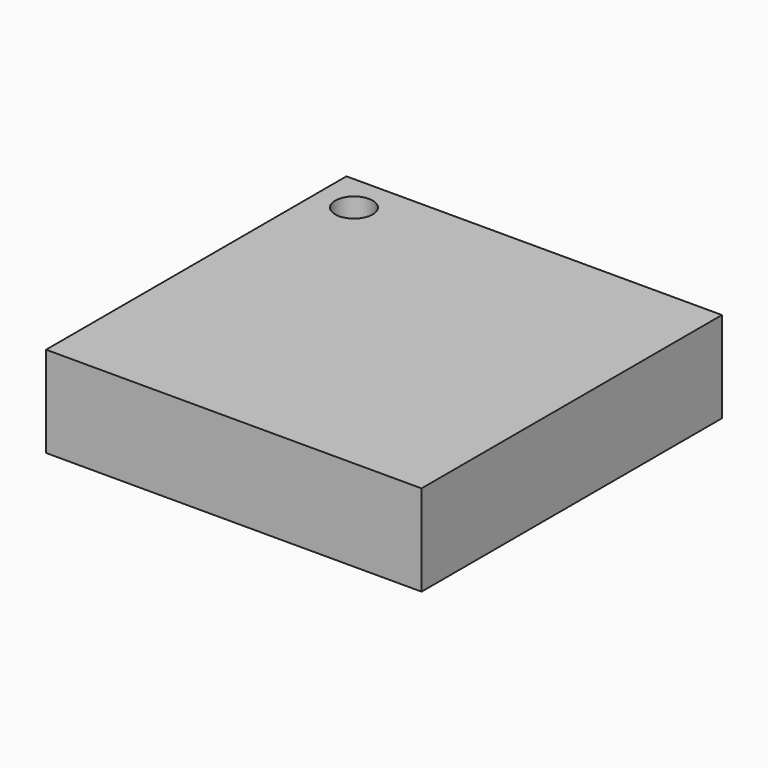
from build123d import *

# Parameters (mm, degrees)
F1_W     = 127
F1_H     = 38.1
F2_DEPTH = 63.5
F5_DEPTH = 50.8


with BuildPart() as f2:
    # F1 (on Front) → F2 (new body, symmetric)
    with BuildSketch(Plane.XZ):
        with Locations((-0.005746, 19.05)):
            Rectangle(F1_W, F1_H)
    extrude(amount=F2_DEPTH, both=True)

    # F0 (on Front) → F3 (revolve, cut)
    with BuildSketch(Plane.XZ):
        Polygon((48.160355, 7.332348), (38.1, 1.524), (0, 1.524), (0, 0), (92.567263, 0), (92.567263, 7.332348), align=None)
    revolve(axis=Axis((0, 0, 0.762), (0, 0, -1)), mode=Mode.SUBTRACT)

    # F4 (on Top) → F5 (cut, symmetric)
    with BuildSketch(Plane.XY):
        with BuildLine():
            Line((-50.8, 44.45), (-50.8, 50.8))
            Line((-50.8, 50.8), (-44.45, 50.8))
            ThreePointArc((-44.45, 50.8), (-55.290128, 55.290128), (-50.8, 44.45))
        make_face()
        with BuildLine():
            Line((-44.45, 50.8), (-50.8, 50.8))
            Line((-50.8, 50.8), (-50.8, 44.45))
            ThreePointArc((-50.8, 44.45), (-46.309872, 46.309872), (-44.45, 50.8))
        make_face()
    extrude(amount=F5_DEPTH, both=True, mode=Mode.SUBTRACT)


solid = f2.part
